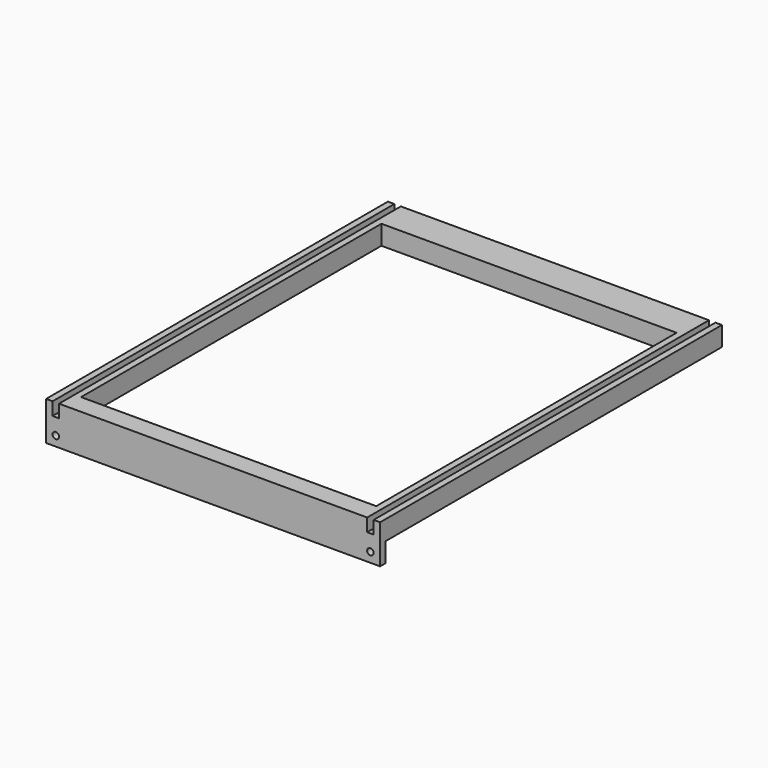
from build123d import *

# Parameters (mm, degrees)
F0_W     = 516
F0_H     = 660
F0_W_2   = 456
F0_H_2   = 580
F1_DEPTH = 20
F2_W     = 10
F2_H     = 660
F3_DEPTH = 10
F4_DEPTH = 10
F5_W     = 30
F5_H     = 10
F6_DEPTH = 30
F8_D     = 10
F9_DEPTH = 456


with BuildPart() as f1:
    # F0 (on Top) → F1 (new body)
    with BuildSketch(Plane.XY):
        with Locations((30.9582352638, 132.1864551082)):
            Rectangle(F0_W, F0_H)
        with Locations((30.9582352638, 122.1864551082)):
            Rectangle(F0_W_2, F0_H_2, mode=Mode.SUBTRACT)
    extrude(amount=F1_DEPTH)

    # F2 (on face) → F3 (cut)
    with BuildSketch(Plane.XY.offset(20)):
        with Locations((-212.0417647362, 132.1864551082)):
            Rectangle(F2_W, F2_H)
        with Locations((273.9582352638, 132.1864551082)):
            Rectangle(F2_W, F2_H)
    extrude(amount=-F3_DEPTH, mode=Mode.SUBTRACT)

    # F4 (add): faces of the model
    f4_faces = [f1.faces().sort_by_distance(p)[0] for p in [
        (283.9582352638, 132.1864551082, 20),
        (-222.0417647362, 132.1864551082, 20),
        (30.9582352638, -189.6761251533, 20),
    ]]
    extrude(f4_faces, amount=F4_DEPTH)

    # F5 (on face) → F6 (join)
    with BuildSketch(Plane(origin=(0, 0, 0), x_dir=(1, 0, 0), z_dir=(0, 0, -1))):
        with Locations((273.9582352638, 192.8135448918)):
            Rectangle(F5_W, F5_H)
        with Locations((-212.0417647362, 192.8135448918)):
            Rectangle(F5_W, F5_H)
    extrude(amount=F6_DEPTH)

    # F8 (through all)
    with Locations(Plane(origin=(0, -187.8135448918, 0), x_dir=(-1, 0, 0), z_dir=(0, 1, 0))):
        with Locations((212.0417647362, -15), (-273.9582352638, -15)):
            Hole(F8_D / 2)

    # F9 (add, through all): a face of the model
    f9_faces = [f1.faces().sort_by_distance(p)[0] for p in [
        (258.9582352638, -192.8135448918, -15),
    ]]
    extrude(f9_faces, amount=F9_DEPTH)


solid = f1.part
